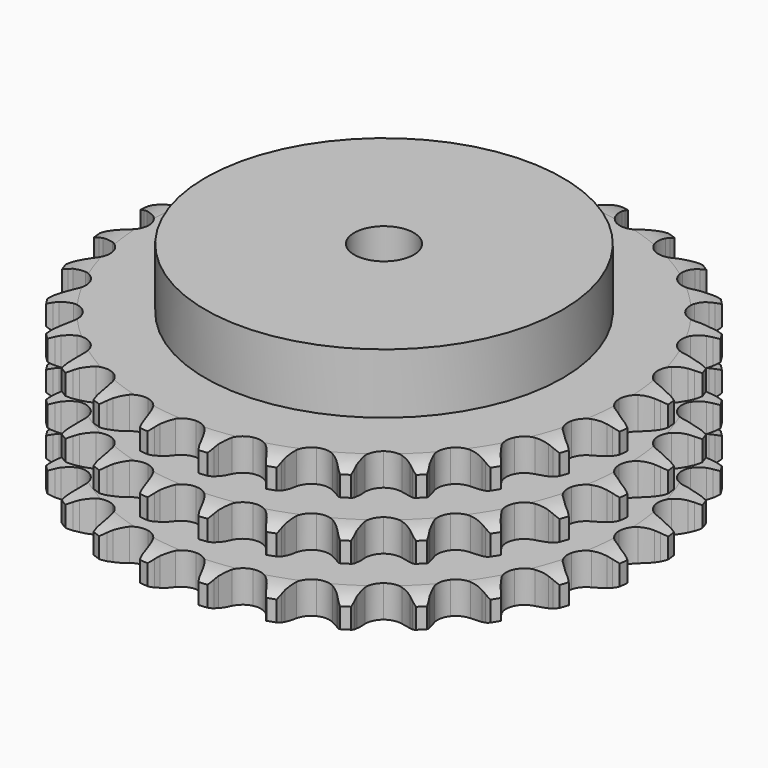
from build123d import *

# Parameters (mm, degrees)
PAD_DEPTH         = 49.8
SKETCH001_R       = 60
PAD001_DEPTH      = 70
SKETCH002_R       = 10
POCKET_DEPTH      = 0.001
POCKET_DEPTH_BACK = 70.001


with BuildPart() as part:
    # Sprocket → Pad (new body)
    with BuildSketch(Plane.XY):
        with BuildLine():
            ThreePointArc((-10.199193, 90.520346), (-8.671084, 88.783435), (-7.589433, 86.738439))
            Line((-7.589433, 86.738439), (-7.001312, 85.217676))
            ThreePointArc((-7.001312, 85.217676), (-6.067169, 83.22737), (-4.865119, 81.386441))
            ThreePointArc((-4.865119, 81.386441), (-2.716457, 79.606204), (0, 78.968351))
            ThreePointArc((0, 78.968351), (2.716457, 79.606204), (4.865119, 81.386441))
            ThreePointArc((4.865119, 81.386441), (6.067169, 83.22737), (7.001312, 85.217676))
            Line((7.001312, 85.217676), (7.589433, 86.738439))
            ThreePointArc((7.589433, 86.738439), (8.671084, 88.783435), (10.199193, 90.520346))
            ThreePointArc((10.199193, 90.520346), (11.302491, 88.486946), (11.901969, 86.252533))
            Line((11.901969, 86.252533), (12.136942, 84.63903))
            ThreePointArc((12.136942, 84.63903), (12.60478, 82.490758), (13.367047, 80.428504))
            ThreePointArc((13.367047, 80.428504), (15.065698, 78.214779), (17.572111, 76.988449))
            ThreePointArc((17.572111, 76.988449), (20.362396, 77.005842), (22.853327, 78.263323))
            Line((22.853327, 78.263323), (25.788492, 81.523153))
            ThreePointArc((25.788492, 81.523153), (26.226886, 82.210835), (26.700268, 82.874917))
            ThreePointArc((26.700268, 82.874917), (28.209855, 84.627951), (30.08615, 85.981278))
            ThreePointArc((30.08615, 85.981278), (30.709312, 83.753353), (30.796556, 81.441564))
            Line((30.796556, 81.441564), (30.6666, 79.816229))
            ThreePointArc((30.6666, 79.816229), (30.644673, 77.617715), (30.928933, 75.437546))
            ThreePointArc((30.928933, 75.437546), (32.092395, 72.901338), (34.263083, 71.148026))
            ThreePointArc((34.263083, 71.148026), (36.98728, 70.544086), (39.695574, 71.215754))
            Line((39.695574, 71.215754), (43.282528, 73.740718))
            ThreePointArc((43.282528, 73.740718), (43.862955, 74.313607), (44.472241, 74.855701))
            ThreePointArc((44.472241, 74.855701), (46.334065, 76.228868), (48.464462, 77.130749))
            ThreePointArc((48.464462, 77.130749), (48.57624, 74.820017), (48.146875, 72.546776))
            Line((48.146875, 72.546776), (47.658506, 70.991109))
            ThreePointArc((47.658506, 70.991109), (47.147913, 68.852596), (46.939913, 66.663834))
            ThreePointArc((46.939913, 66.663834), (47.509845, 63.93232), (49.235961, 61.739943))
            ThreePointArc((49.235961, 61.739943), (51.757468, 60.544954), (54.547319, 60.59713))
            Line((54.547319, 60.59713), (58.606198, 62.260616))
            ThreePointArc((58.606198, 62.260616), (59.299552, 62.689984), (60.014189, 63.082908))
            ThreePointArc((60.014189, 63.082908), (62.134893, 64.007352), (64.412563, 64.412563))
            ThreePointArc((64.412563, 64.412563), (64.007352, 62.134893), (63.082908, 60.014189))
            Line((63.082908, 60.014189), (62.260616, 58.606198))
            ThreePointArc((62.260616, 58.606198), (61.286961, 56.63492), (60.59713, 54.547319))
            ThreePointArc((60.59713, 54.547319), (60.544954, 51.757468), (61.739943, 49.235961))
            ThreePointArc((61.739943, 49.235961), (63.93232, 47.509845), (66.663834, 46.939913))
            Line((66.663834, 46.939913), (70.991109, 47.658506))
            ThreePointArc((70.991109, 47.658506), (71.762622, 47.922823), (72.546776, 48.146875))
            ThreePointArc((72.546776, 48.146875), (74.820017, 48.57624), (77.130749, 48.464462))
            ThreePointArc((77.130749, 48.464462), (76.228868, 46.334065), (74.855701, 44.472241))
            Line((74.855701, 44.472241), (73.740718, 43.282528))
            ThreePointArc((73.740718, 43.282528), (72.352824, 41.577333), (71.215754, 39.695574))
            ThreePointArc((71.215754, 39.695574), (70.544086, 36.98728), (71.148026, 34.263083))
            ThreePointArc((71.148026, 34.263083), (72.901338, 32.092395), (75.437546, 30.928933))
            Line((75.437546, 30.928933), (79.816229, 30.6666))
            ThreePointArc((79.816229, 30.6666), (80.627215, 30.752612), (81.441564, 30.796556))
            ThreePointArc((81.441564, 30.796556), (83.753353, 30.709312), (85.981278, 30.08615))
            ThreePointArc((85.981278, 30.08615), (84.627951, 28.209855), (82.874917, 26.700268))
            Line((82.874917, 26.700268), (81.523153, 25.788492))
            ThreePointArc((81.523153, 25.788492), (79.790614, 24.434884), (78.263323, 22.853327))
            ThreePointArc((78.263323, 22.853327), (77.005842, 20.362396), (76.988449, 17.572111))
            ThreePointArc((76.988449, 17.572111), (78.214779, 15.065698), (80.428504, 13.367047))
            Line((80.428504, 13.367047), (84.63903, 12.136942))
            ThreePointArc((84.63903, 12.136942), (85.448822, 12.040337), (86.252533, 11.901969))
            ThreePointArc((86.252533, 11.901969), (88.486946, 11.302491), (90.520346, 10.199193))
            ThreePointArc((90.520346, 10.199193), (88.783435, 8.671084), (86.738439, 7.589433))
            Line((86.738439, 7.589433), (85.217676, 7.001312))
            ThreePointArc((85.217676, 7.001312), (83.22737, 6.067169), (81.386441, 4.865119))
            ThreePointArc((81.386441, 4.865119), (79.606204, 2.716457), (78.968351, 0))
            ThreePointArc((78.968351, 0), (79.606204, -2.716457), (81.386441, -4.865119))
            Line((81.386441, -4.865119), (85.217676, -7.001312))
            ThreePointArc((85.217676, -7.001312), (85.985669, -7.275691), (86.738439, -7.589433))
            ThreePointArc((86.738439, -7.589433), (88.783435, -8.671084), (90.520346, -10.199193))
            ThreePointArc((90.520346, -10.199193), (88.486946, -11.302491), (86.252533, -11.901969))
            Line((86.252533, -11.901969), (84.63903, -12.136942))
            ThreePointArc((84.63903, -12.136942), (82.490758, -12.60478), (80.428504, -13.367047))
            ThreePointArc((80.428504, -13.367047), (78.214779, -15.065698), (76.988449, -17.572111))
            ThreePointArc((76.988449, -17.572111), (77.005842, -20.362396), (78.263323, -22.853327))
            Line((78.263323, -22.853327), (81.523153, -25.788492))
            ThreePointArc((81.523153, -25.788492), (82.210835, -26.226886), (82.874917, -26.700268))
            ThreePointArc((82.874917, -26.700268), (84.627951, -28.209855), (85.981278, -30.08615))
            ThreePointArc((85.981278, -30.08615), (83.753353, -30.709312), (81.441564, -30.796556))
            Line((81.441564, -30.796556), (79.816229, -30.6666))
            ThreePointArc((79.816229, -30.6666), (77.617715, -30.644673), (75.437546, -30.928933))
            ThreePointArc((75.437546, -30.928933), (72.901338, -32.092395), (71.148026, -34.263083))
            ThreePointArc((71.148026, -34.263083), (70.544086, -36.98728), (71.215754, -39.695574))
            Line((71.215754, -39.695574), (73.740718, -43.282528))
            ThreePointArc((73.740718, -43.282528), (74.313607, -43.862955), (74.855701, -44.472241))
            ThreePointArc((74.855701, -44.472241), (76.228868, -46.334065), (77.130749, -48.464462))
            ThreePointArc((77.130749, -48.464462), (74.820017, -48.57624), (72.546776, -48.146875))
            Line((72.546776, -48.146875), (70.991109, -47.658506))
            ThreePointArc((70.991109, -47.658506), (68.852596, -47.147913), (66.663834, -46.939913))
            ThreePointArc((66.663834, -46.939913), (63.93232, -47.509845), (61.739943, -49.235961))
            ThreePointArc((61.739943, -49.235961), (60.544954, -51.757468), (60.59713, -54.547319))
            Line((60.59713, -54.547319), (62.260616, -58.606198))
            ThreePointArc((62.260616, -58.606198), (62.689984, -59.299552), (63.082908, -60.014189))
            ThreePointArc((63.082908, -60.014189), (64.007352, -62.134893), (64.412563, -64.412563))
            ThreePointArc((64.412563, -64.412563), (62.134893, -64.007352), (60.014189, -63.082908))
            Line((60.014189, -63.082908), (58.606198, -62.260616))
            ThreePointArc((58.606198, -62.260616), (56.63492, -61.286961), (54.547319, -60.59713))
            ThreePointArc((54.547319, -60.59713), (51.757468, -60.544954), (49.235961, -61.739943))
            ThreePointArc((49.235961, -61.739943), (47.509845, -63.93232), (46.939913, -66.663834))
            Line((46.939913, -66.663834), (47.658506, -70.991109))
            ThreePointArc((47.658506, -70.991109), (47.922823, -71.762622), (48.146875, -72.546776))
            ThreePointArc((48.146875, -72.546776), (48.57624, -74.820017), (48.464462, -77.130749))
            ThreePointArc((48.464462, -77.130749), (46.334065, -76.228868), (44.472241, -74.855701))
            Line((44.472241, -74.855701), (43.282528, -73.740718))
            ThreePointArc((43.282528, -73.740718), (41.577333, -72.352824), (39.695574, -71.215754))
            ThreePointArc((39.695574, -71.215754), (36.98728, -70.544086), (34.263083, -71.148026))
            ThreePointArc((34.263083, -71.148026), (32.092395, -72.901338), (30.928933, -75.437546))
            Line((30.928933, -75.437546), (30.6666, -79.816229))
            ThreePointArc((30.6666, -79.816229), (30.752612, -80.627215), (30.796556, -81.441564))
            ThreePointArc((30.796556, -81.441564), (30.709312, -83.753353), (30.08615, -85.981278))
            ThreePointArc((30.08615, -85.981278), (28.209855, -84.627951), (26.700268, -82.874917))
            Line((26.700268, -82.874917), (25.788492, -81.523153))
            ThreePointArc((25.788492, -81.523153), (24.434884, -79.790614), (22.853327, -78.263323))
            ThreePointArc((22.853327, -78.263323), (20.362396, -77.005842), (17.572111, -76.988449))
            ThreePointArc((17.572111, -76.988449), (15.065698, -78.214779), (13.367047, -80.428504))
            Line((13.367047, -80.428504), (12.136942, -84.63903))
            ThreePointArc((12.136942, -84.63903), (12.040337, -85.448822), (11.901969, -86.252533))
            ThreePointArc((11.901969, -86.252533), (11.302491, -88.486946), (10.199193, -90.520346))
            ThreePointArc((10.199193, -90.520346), (8.671084, -88.783435), (7.589433, -86.738439))
            Line((7.589433, -86.738439), (7.001312, -85.217676))
            ThreePointArc((7.001312, -85.217676), (6.067169, -83.22737), (4.865119, -81.386441))
            ThreePointArc((4.865119, -81.386441), (2.716457, -79.606204), (0, -78.968351))
            ThreePointArc((0, -78.968351), (-2.716457, -79.606204), (-4.865119, -81.386441))
            Line((-4.865119, -81.386441), (-7.001312, -85.217676))
            ThreePointArc((-7.001312, -85.217676), (-7.275691, -85.985669), (-7.589433, -86.738439))
            ThreePointArc((-7.589433, -86.738439), (-8.671084, -88.783435), (-10.199193, -90.520346))
            ThreePointArc((-10.199193, -90.520346), (-11.302491, -88.486946), (-11.901969, -86.252533))
            Line((-11.901969, -86.252533), (-12.136942, -84.63903))
            ThreePointArc((-12.136942, -84.63903), (-12.60478, -82.490758), (-13.367047, -80.428504))
            ThreePointArc((-13.367047, -80.428504), (-15.065698, -78.214779), (-17.572111, -76.988449))
            ThreePointArc((-17.572111, -76.988449), (-20.362396, -77.005842), (-22.853327, -78.263323))
            Line((-22.853327, -78.263323), (-25.788492, -81.523153))
            ThreePointArc((-25.788492, -81.523153), (-26.226886, -82.210835), (-26.700268, -82.874917))
            ThreePointArc((-26.700268, -82.874917), (-28.209855, -84.627951), (-30.08615, -85.981278))
            ThreePointArc((-30.08615, -85.981278), (-30.709312, -83.753353), (-30.796556, -81.441564))
            Line((-30.796556, -81.441564), (-30.6666, -79.816229))
            ThreePointArc((-30.6666, -79.816229), (-30.644673, -77.617715), (-30.928933, -75.437546))
            ThreePointArc((-30.928933, -75.437546), (-32.092395, -72.901338), (-34.263083, -71.148026))
            ThreePointArc((-34.263083, -71.148026), (-36.98728, -70.544086), (-39.695574, -71.215754))
            Line((-39.695574, -71.215754), (-43.282528, -73.740718))
            ThreePointArc((-43.282528, -73.740718), (-43.862955, -74.313607), (-44.472241, -74.855701))
            ThreePointArc((-44.472241, -74.855701), (-46.334065, -76.228868), (-48.464462, -77.130749))
            ThreePointArc((-48.464462, -77.130749), (-48.57624, -74.820017), (-48.146875, -72.546776))
            Line((-48.146875, -72.546776), (-47.658506, -70.991109))
            ThreePointArc((-47.658506, -70.991109), (-47.147913, -68.852596), (-46.939913, -66.663834))
            ThreePointArc((-46.939913, -66.663834), (-47.509845, -63.93232), (-49.235961, -61.739943))
            ThreePointArc((-49.235961, -61.739943), (-51.757468, -60.544954), (-54.547319, -60.59713))
            Line((-54.547319, -60.59713), (-58.606198, -62.260616))
            ThreePointArc((-58.606198, -62.260616), (-59.299552, -62.689984), (-60.014189, -63.082908))
            ThreePointArc((-60.014189, -63.082908), (-62.134893, -64.007352), (-64.412563, -64.412563))
            ThreePointArc((-64.412563, -64.412563), (-64.007352, -62.134893), (-63.082908, -60.014189))
            Line((-63.082908, -60.014189), (-62.260616, -58.606198))
            ThreePointArc((-62.260616, -58.606198), (-61.286961, -56.63492), (-60.59713, -54.547319))
            ThreePointArc((-60.59713, -54.547319), (-60.544954, -51.757468), (-61.739943, -49.235961))
            ThreePointArc((-61.739943, -49.235961), (-63.93232, -47.509845), (-66.663834, -46.939913))
            Line((-66.663834, -46.939913), (-70.991109, -47.658506))
            ThreePointArc((-70.991109, -47.658506), (-71.762622, -47.922823), (-72.546776, -48.146875))
            ThreePointArc((-72.546776, -48.146875), (-74.820017, -48.57624), (-77.130749, -48.464462))
            ThreePointArc((-77.130749, -48.464462), (-76.228868, -46.334065), (-74.855701, -44.472241))
            Line((-74.855701, -44.472241), (-73.740718, -43.282528))
            ThreePointArc((-73.740718, -43.282528), (-72.352824, -41.577333), (-71.215754, -39.695574))
            ThreePointArc((-71.215754, -39.695574), (-70.544086, -36.98728), (-71.148026, -34.263083))
            ThreePointArc((-71.148026, -34.263083), (-72.901338, -32.092395), (-75.437546, -30.928933))
            Line((-75.437546, -30.928933), (-79.816229, -30.6666))
            ThreePointArc((-79.816229, -30.6666), (-80.627215, -30.752612), (-81.441564, -30.796556))
            ThreePointArc((-81.441564, -30.796556), (-83.753353, -30.709312), (-85.981278, -30.08615))
            ThreePointArc((-85.981278, -30.08615), (-84.627951, -28.209855), (-82.874917, -26.700268))
            Line((-82.874917, -26.700268), (-81.523153, -25.788492))
            ThreePointArc((-81.523153, -25.788492), (-79.790614, -24.434884), (-78.263323, -22.853327))
            ThreePointArc((-78.263323, -22.853327), (-77.005842, -20.362396), (-76.988449, -17.572111))
            ThreePointArc((-76.988449, -17.572111), (-78.214779, -15.065698), (-80.428504, -13.367047))
            Line((-80.428504, -13.367047), (-84.63903, -12.136942))
            ThreePointArc((-84.63903, -12.136942), (-85.448822, -12.040337), (-86.252533, -11.901969))
            ThreePointArc((-86.252533, -11.901969), (-88.486946, -11.302491), (-90.520346, -10.199193))
            ThreePointArc((-90.520346, -10.199193), (-88.783435, -8.671084), (-86.738439, -7.589433))
            Line((-86.738439, -7.589433), (-85.217676, -7.001312))
            ThreePointArc((-85.217676, -7.001312), (-83.22737, -6.067169), (-81.386441, -4.865119))
            ThreePointArc((-81.386441, -4.865119), (-79.606204, -2.716457), (-78.968351, 0))
            ThreePointArc((-78.968351, 0), (-79.606204, 2.716457), (-81.386441, 4.865119))
            Line((-81.386441, 4.865119), (-85.217676, 7.001312))
            ThreePointArc((-85.217676, 7.001312), (-85.985669, 7.275691), (-86.738439, 7.589433))
            ThreePointArc((-86.738439, 7.589433), (-88.783435, 8.671084), (-90.520346, 10.199193))
            ThreePointArc((-90.520346, 10.199193), (-88.486946, 11.302491), (-86.252533, 11.901969))
            Line((-86.252533, 11.901969), (-84.63903, 12.136942))
            ThreePointArc((-84.63903, 12.136942), (-82.490758, 12.60478), (-80.428504, 13.367047))
            ThreePointArc((-80.428504, 13.367047), (-78.214779, 15.065698), (-76.988449, 17.572111))
            ThreePointArc((-76.988449, 17.572111), (-77.005842, 20.362396), (-78.263323, 22.853327))
            Line((-78.263323, 22.853327), (-81.523153, 25.788492))
            ThreePointArc((-81.523153, 25.788492), (-82.210835, 26.226886), (-82.874917, 26.700268))
            ThreePointArc((-82.874917, 26.700268), (-84.627951, 28.209855), (-85.981278, 30.08615))
            ThreePointArc((-85.981278, 30.08615), (-83.753353, 30.709312), (-81.441564, 30.796556))
            Line((-81.441564, 30.796556), (-79.816229, 30.6666))
            ThreePointArc((-79.816229, 30.6666), (-77.617715, 30.644673), (-75.437546, 30.928933))
            ThreePointArc((-75.437546, 30.928933), (-72.901338, 32.092395), (-71.148026, 34.263083))
            ThreePointArc((-71.148026, 34.263083), (-70.544086, 36.98728), (-71.215754, 39.695574))
            Line((-71.215754, 39.695574), (-73.740718, 43.282528))
            ThreePointArc((-73.740718, 43.282528), (-74.313607, 43.862955), (-74.855701, 44.472241))
            ThreePointArc((-74.855701, 44.472241), (-76.228868, 46.334065), (-77.130749, 48.464462))
            ThreePointArc((-77.130749, 48.464462), (-74.820017, 48.57624), (-72.546776, 48.146875))
            Line((-72.546776, 48.146875), (-70.991109, 47.658506))
            ThreePointArc((-70.991109, 47.658506), (-68.852596, 47.147913), (-66.663834, 46.939913))
            ThreePointArc((-66.663834, 46.939913), (-63.93232, 47.509845), (-61.739943, 49.235961))
            ThreePointArc((-61.739943, 49.235961), (-60.544954, 51.757468), (-60.59713, 54.547319))
            Line((-60.59713, 54.547319), (-62.260616, 58.606198))
            ThreePointArc((-62.260616, 58.606198), (-62.689984, 59.299552), (-63.082908, 60.014189))
            ThreePointArc((-63.082908, 60.014189), (-64.007352, 62.134893), (-64.412563, 64.412563))
            ThreePointArc((-64.412563, 64.412563), (-62.134893, 64.007352), (-60.014189, 63.082908))
            Line((-60.014189, 63.082908), (-58.606198, 62.260616))
            ThreePointArc((-58.606198, 62.260616), (-56.63492, 61.286961), (-54.547319, 60.59713))
            ThreePointArc((-54.547319, 60.59713), (-51.757468, 60.544954), (-49.235961, 61.739943))
            ThreePointArc((-49.235961, 61.739943), (-47.509845, 63.93232), (-46.939913, 66.663834))
            Line((-46.939913, 66.663834), (-47.658506, 70.991109))
            ThreePointArc((-47.658506, 70.991109), (-47.922823, 71.762622), (-48.146875, 72.546776))
            ThreePointArc((-48.146875, 72.546776), (-48.57624, 74.820017), (-48.464462, 77.130749))
            ThreePointArc((-48.464462, 77.130749), (-46.334065, 76.228868), (-44.472241, 74.855701))
            Line((-44.472241, 74.855701), (-43.282528, 73.740718))
            ThreePointArc((-43.282528, 73.740718), (-41.577333, 72.352824), (-39.695574, 71.215754))
            ThreePointArc((-39.695574, 71.215754), (-36.98728, 70.544086), (-34.263083, 71.148026))
            ThreePointArc((-34.263083, 71.148026), (-32.092395, 72.901338), (-30.928933, 75.437546))
            Line((-30.928933, 75.437546), (-30.6666, 79.816229))
            ThreePointArc((-30.6666, 79.816229), (-30.752612, 80.627215), (-30.796556, 81.441564))
            ThreePointArc((-30.796556, 81.441564), (-30.709312, 83.753353), (-30.08615, 85.981278))
            ThreePointArc((-30.08615, 85.981278), (-28.209855, 84.627951), (-26.700268, 82.874917))
            Line((-26.700268, 82.874917), (-25.788492, 81.523153))
            ThreePointArc((-25.788492, 81.523153), (-24.434884, 79.790614), (-22.853327, 78.263323))
            ThreePointArc((-22.853327, 78.263323), (-20.362396, 77.005842), (-17.572111, 76.988449))
            ThreePointArc((-17.572111, 76.988449), (-15.065698, 78.214779), (-13.367047, 80.428504))
            Line((-13.367047, 80.428504), (-12.136942, 84.63903))
            ThreePointArc((-12.136942, 84.63903), (-12.040337, 85.448822), (-11.901969, 86.252533))
            ThreePointArc((-11.901969, 86.252533), (-11.302491, 88.486946), (-10.199193, 90.520346))
        make_face()
    extrude(amount=PAD_DEPTH)

    # Sketch → Groove (revolve, cut)
    with BuildSketch(Plane.XZ):
        with BuildLine():
            ThreePointArc((80.514719, 0), (84.873618, 0.506758), (89, 2))
            Line((89, 2), (89, 8.8))
            ThreePointArc((89, 8.8), (84.873618, 10.293242), (80.514719, 10.8))
            Line((60, 10.8), (80.514719, 10.8))
            Line((60, 10.8), (60, 19.5))
            Line((60, 19.5), (80.514719, 19.5))
            ThreePointArc((80.514719, 19.5), (84.873618, 20.006758), (89, 21.5))
            Line((89, 28.3), (89, 21.5))
            ThreePointArc((89, 28.3), (84.873618, 29.793242), (80.514719, 30.3))
            Line((60, 30.3), (80.514719, 30.3))
            Line((60, 39), (60, 30.3))
            Line((80.514719, 39), (60, 39))
            ThreePointArc((80.514719, 39), (84.873618, 39.506758), (89, 41))
            Line((89, 41), (89, 47.8))
            ThreePointArc((89, 47.8), (84.873618, 49.293242), (80.514719, 49.8))
            Line((80.514719, 49.8), (99, 49.8))
            Line((99, 49.8), (99, 0))
            Line((80.514719, 0), (99, 0))
        make_face()
    revolve(axis=Axis((0, 0, 0), (0, 0, 1)), mode=Mode.SUBTRACT)

    # Sketch001 → Pad001 (join)
    with BuildSketch(Plane.XY):
        Circle(SKETCH001_R)
    extrude(amount=PAD001_DEPTH)

    # Sketch002 → Pocket (cut, two sides)
    with BuildSketch(Plane.XY) as pocket_sk:
        Circle(SKETCH002_R)
    extrude(amount=-POCKET_DEPTH, mode=Mode.SUBTRACT)
    extrude(pocket_sk.sketch, amount=POCKET_DEPTH_BACK, mode=Mode.SUBTRACT)


solid = part.part
